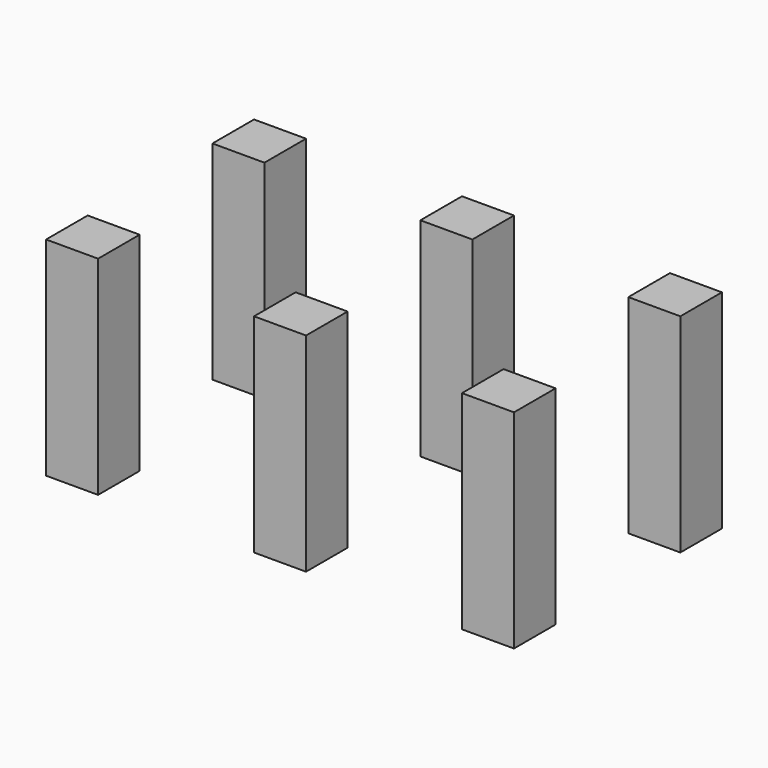
from build123d import *

# Parameters (mm, degrees)
F0_W     = 6.35
F0_H     = 6.35
F1_DEPTH = 25.4


with BuildPart() as f1:
    # F0 (on Top) → F1 (new body)
    with BuildSketch(Plane.XY):
        with Locations((-3.175, -3.175)):
            Rectangle(F0_W, F0_H)
        with Locations((-53.975, -3.175)):
            Rectangle(F0_W, F0_H)
        with Locations((-28.575, -3.175)):
            Rectangle(F0_W, F0_H)
        with Locations((-53.975, 22.225)):
            Rectangle(F0_W, F0_H)
        with Locations((-28.575, 22.225)):
            Rectangle(F0_W, F0_H)
        with Locations((-3.175, 22.225)):
            Rectangle(F0_W, F0_H)
    extrude(amount=F1_DEPTH)


solid = f1.part
